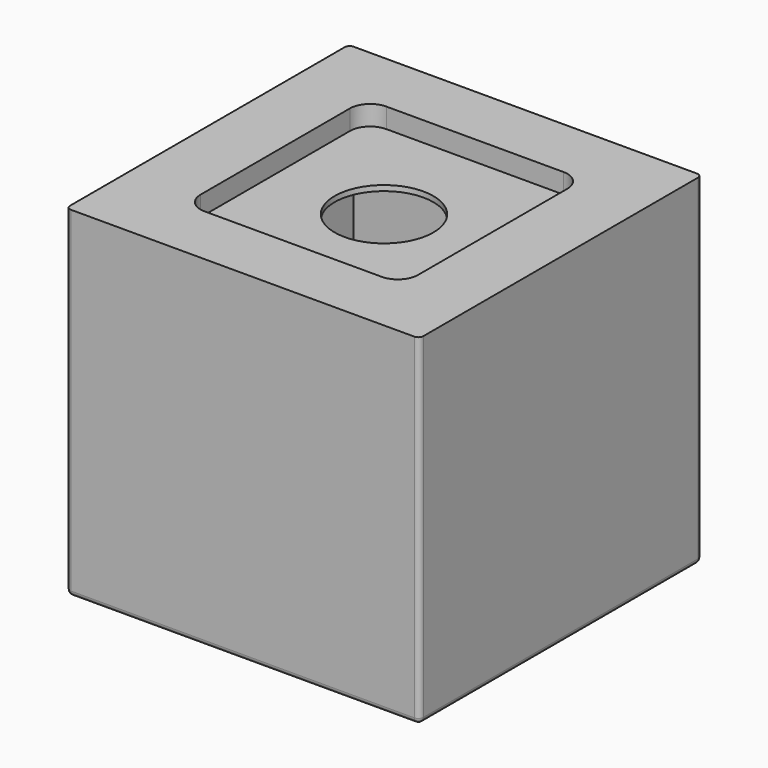
from build123d import *

# Parameters (mm, degrees)
F0_W     = 88.9
F0_H     = 88.9
F1_DEPTH = 85.725
F2_T     = -6.35
F3_W     = 54.725456
F3_H     = 57.15
F4_DEPTH = 5
F5_R     = 5.08
F6_R     = 1.27
F7_R     = 12.425883
F8_DEPTH = 25.4


with BuildPart() as f1:
    # F0 (on Top) → F1 (new body)
    with BuildSketch(Plane.XY):
        Rectangle(F0_W, F0_H)
    extrude(amount=F1_DEPTH)

    # F2
    f2_openings = [f1.faces().sort_by_distance(p)[0] for p in [
        (0, 0, 0),
    ]]
    offset(amount=F2_T, openings=f2_openings)

    # F3 (on face) → F4 (cut)
    with BuildSketch(Plane.XY.offset(85.725)):
        Rectangle(F3_W, F3_H)
    extrude(amount=-F4_DEPTH, mode=Mode.SUBTRACT)

    # F5
    f5_edges = [f1.edges().sort_by_distance(p)[0] for p in [
        (-27.362728, 28.575, 83.225),
        (-27.362728, -28.575, 83.225),
        (27.362728, -28.575, 83.225),
        (27.362728, 28.575, 83.225),
    ]]
    fillet(f5_edges, radius=F5_R)

    # F6
    f6_edges = [f1.edges().sort_by_distance(p)[0] for p in [
        (44.45, -44.45, 42.8625),
        (44.45, 44.45, 42.8625),
        (-44.45, -44.45, 42.8625),
        (-44.45, 44.45, 42.8625),
        (-44.45, 0, 0),
        (0, -44.45, 0),
        (0, 44.45, 0),
        (44.45, 0, 0),
    ]]
    fillet(f6_edges, radius=F6_R)

    # F7 (on face) → F8 (cut)
    with BuildSketch(Plane.XY.offset(80.725)):
        Circle(F7_R)
    extrude(amount=-F8_DEPTH, mode=Mode.SUBTRACT)


solid = f1.part
